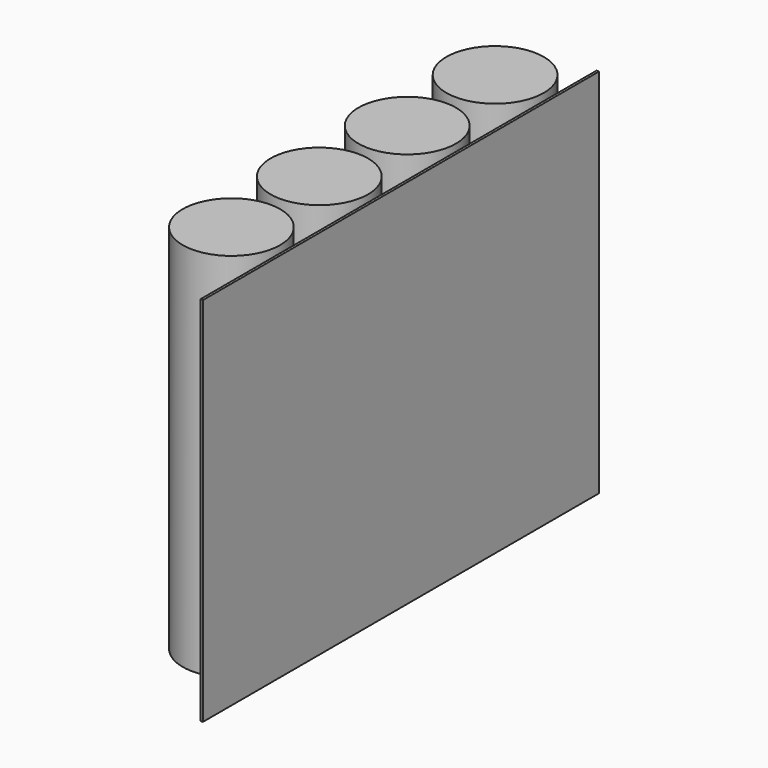
from build123d import *

# Parameters (mm, degrees)
F0_W     = 508
F0_H     = 381
F1_DEPTH = 2.54
F2_R     = 50.013952
F3_DEPTH = 190.5


with BuildPart() as f1:
    # F0 (on Right) → F1 (new body)
    with BuildSketch(Plane.YZ):
        Rectangle(F0_W, F0_H)
    extrude(amount=F1_DEPTH)


with BuildPart() as f3:
    # F2 (on Top) → F3 (new body, symmetric)
    with BuildSketch(Plane.XY):
        with Locations((-58.779277, 197.38397)):
            Circle(F2_R)
        with Locations((-58.779277, 84.656067)):
            Circle(F2_R)
        with Locations((-58.779277, -28.071837)):
            Circle(F2_R)
        with Locations((-58.779277, -140.79974)):
            Circle(F2_R)
    extrude(amount=F3_DEPTH, both=True)


solid = Compound([f1.part, f3.part])
